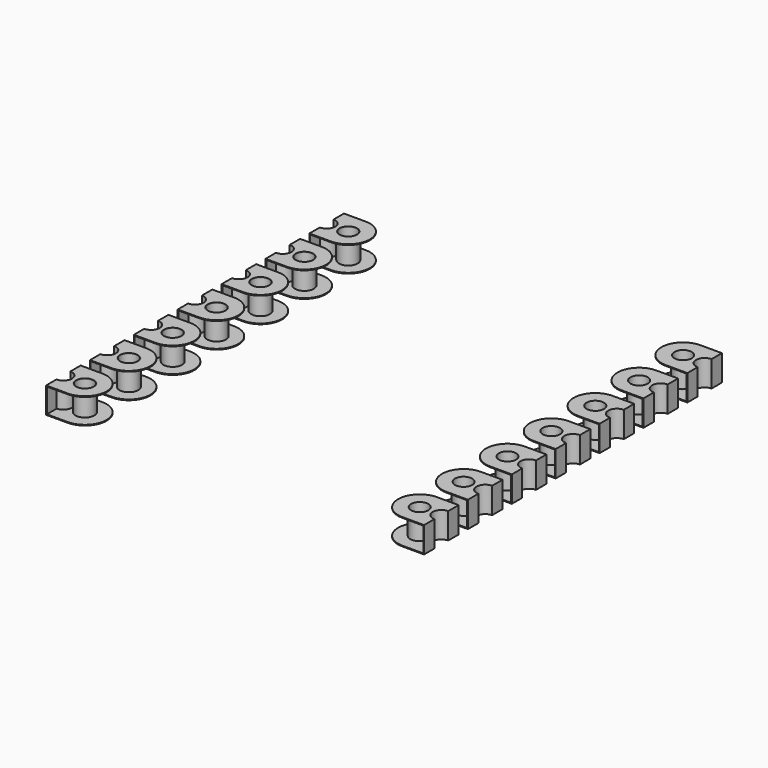
from build123d import *

# Parameters (mm, degrees)
SKETCH001_R   = 0.4
PAD001_DEPTH  = 0.035
PAD002_DEPTH  = 1.2
SKETCH003_R   = 0.4
PAD003_DEPTH  = 0.035
SKETCH004_R   = 0.435
SKETCH004_R_2 = 0.4
PAD004_DEPTH  = 1.2
ARRAY_Y_COUNT = 7
ARRAY_Y_PITCH = 2.54


with BuildPart() as array:
    # Sketch001 → Pad001 (new body)
    with BuildSketch(Plane.XY):
        with BuildLine():
            Line((-8.75, 8.62), (-7.75, 8.62))
            ThreePointArc((-7.75, 6.62), (-6.75, 7.62), (-7.75, 8.62))
            Line((-8.75, 6.62), (-7.75, 6.62))
            Line((-8.75, 7.22), (-8.75, 6.62))
            ThreePointArc((-8.75, 7.22), (-8.35, 7.62), (-8.75, 8.02))
            Line((-8.75, 8.62), (-8.75, 8.02))
        make_face()
        with Locations((-7.75, 7.62)):
            Circle(SKETCH001_R, mode=Mode.SUBTRACT)
    extrude(amount=PAD001_DEPTH)

    # Sketch002 → Pad002 (join)
    with BuildSketch(Plane.XY):
        with BuildLine():
            Line((-8.75, 6.62), (-8.75, 7.22))
            ThreePointArc((-8.75, 7.22), (-8.35, 7.62), (-8.75, 8.02))
            Line((-8.75, 8.02), (-8.75, 8.62))
            Line((-8.75, 8.62), (-8.715, 8.62))
            Line((-8.715, 8.62), (-8.715, 8.05359))
            ThreePointArc((-8.715, 7.18641), (-8.315, 7.62), (-8.715, 8.05359))
            Line((-8.715, 7.18641), (-8.715, 6.62))
            Line((-8.715, 6.62), (-8.75, 6.62))
        make_face()
    extrude(amount=PAD002_DEPTH)

    # Sketch003 (on Face12 of Binder) → Pad003 (join)
    with BuildSketch(Plane.XY.offset(1.2)):
        with BuildLine():
            Line((-8.75, 8.62), (-7.75, 8.62))
            ThreePointArc((-7.75, 6.62), (-6.75, 7.62), (-7.75, 8.62))
            Line((-8.75, 6.62), (-7.75, 6.62))
            Line((-8.75, 7.22), (-8.75, 6.62))
            ThreePointArc((-8.75, 7.22), (-8.35, 7.62), (-8.75, 8.02))
            Line((-8.75, 8.62), (-8.75, 8.02))
        make_face()
        with Locations((-7.75, 7.62)):
            Circle(SKETCH003_R, mode=Mode.SUBTRACT)
    extrude(amount=-PAD003_DEPTH)

    # Sketch004 → Pad004 (join)
    with BuildSketch(Plane.XY):
        with Locations((-7.75, 7.62)):
            Circle(SKETCH004_R)
        with Locations((-7.75, 7.62)):
            Circle(SKETCH004_R_2, mode=Mode.SUBTRACT)
    extrude(amount=PAD004_DEPTH)

    # Array Y: Array ×7


with BuildPart() as array_1:
    add(array.part)
    with Locations(*[(0, -i * ARRAY_Y_PITCH, 0) for i in range(1, ARRAY_Y_COUNT)]):
        add(array.part)


with BuildPart() as array_mirrored:
    # Mirror: instance of Array
    add(array_1.part.mirror(Plane(origin=(0, 0, 0), x_dir=(0, -1, 0), z_dir=(1, 0, 0))))


with BuildPart() as obj1:
    # Fusion base: copy of Array
    add(array_1.part)

    # Fusion: union Array (mirrored)
    add(array_mirrored.part)


solid = obj1.part
